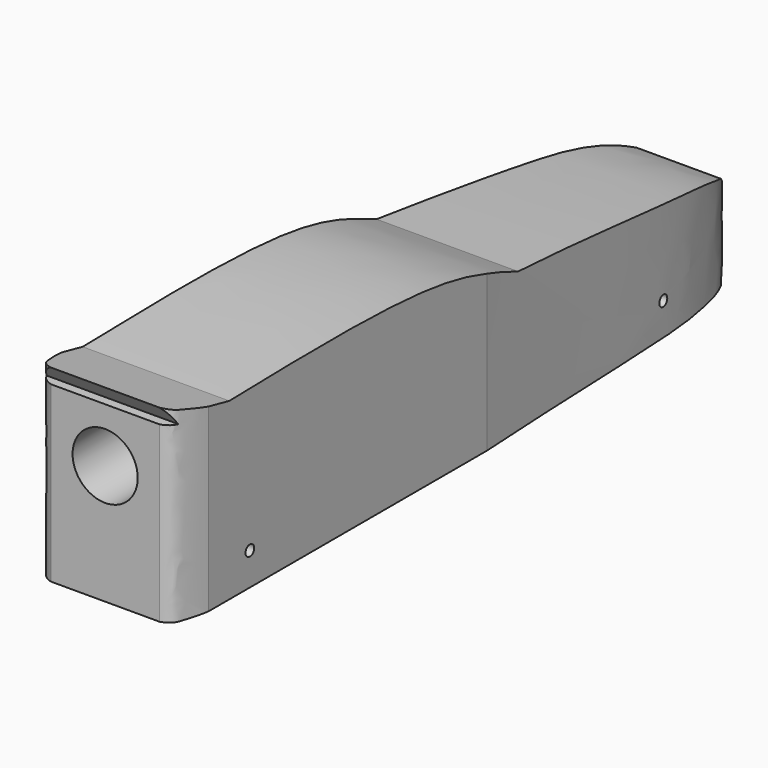
from build123d import *

# Parameters (mm, degrees)
F1_DEPTH = 21.43125
F2_R     = 9.525
F3_DEPTH = 50.8
F4_R     = 1.5875
F6_DEPTH = 42.8635
F7_DEPTH = 55.1070625421


with BuildPart() as f1:
    # F0 (on Right) → F1 (new body, symmetric)
    with BuildSketch(Plane.YZ):
        Polygon((-152.4, 69.85), (-152.4, 0), (152.4, 0), (152.4, 19.05), align=None)
    extrude(amount=F1_DEPTH, both=True)

    # F2 (on face) → F3 (cut)
    with BuildSketch(Plane.XZ.offset(152.4)):
        with Locations((0, 34.925)):
            Circle(F2_R)
    extrude(amount=-F3_DEPTH, mode=Mode.SUBTRACT)

    # F4 (on face) → F6 (intersect, through all)
    with BuildSketch(Plane.YZ.offset(21.43125)):
        with BuildLine():
            Line((-149.7065071007, 50.8408099003), (-152.4, 50.7999993861))
            Line((-152.4, 50.7999993861), (-152.4, 0))
            Line((-152.4, 0), (57.15, 0))
            add(Edge.make_bspline(
                [(57.15, 27.6693087071), (62.9540532827, 23.1574121863), (64.8345353288, 15.2838414165), (60.2900164004, 5.1415623251), (57.15, 0)],
                knots=[0, 0, 0, 0, 0.4816979855, 1, 1, 1, 1], degree=3))
            add(Edge.make_bspline(
                [(-27.3415464908, 40.8684164286), (-8.4446382918, 39.1311924639), (24.8142205738, 35.0208202174), (47.8670857847, 31.8072736263), (57.15, 27.6693087071)],
                knots=[0, 0, 0, 0, 0.5631768545, 1, 1, 1, 1], degree=3))
            add(Edge.make_bspline(
                [(-27.3415464908, 40.8684164286), (-35.3624819778, 44.1492309528), (-56.5713824039, 52.8243373258), (-104.2014900273, 51.7497373627), (-133.8184987721, 51.0815373923)],
                knots=[0, 0, 0, 0, 0.3781872386, 1, 1, 1, 1], degree=3))
            Line((-133.8184987721, 51.0815373923), (-152.4, 55.1060624421))
            Line((-152.4, 55.1060624421), (-149.7065071007, 50.8408099003))
        make_face()
        with Locations((-126.3143569231, 9.525)):
            Circle(F4_R, mode=Mode.SUBTRACT)
        with Locations((29.0634203702, 9.525)):
            Circle(F4_R, mode=Mode.SUBTRACT)
    extrude(amount=-F6_DEPTH, mode=Mode.INTERSECT)

    # F5 (on face) → F7 (intersect, through all)
    with BuildSketch(Plane(origin=(0, 0, 0), x_dir=(1, 0, 0), z_dir=(0, 0, -1))):
        with BuildLine():
            add(Edge.make_bspline(
                [(-21.43125, 141.3332819939), (-21.105100692, 143.7924098417), (-19.7181081761, 148.2729204744), (-18.7462978065, 151.51001513), (-15.875, 152.4)],
                knots=[0, 0, 0, 0, 0.5247215937, 1, 1, 1, 1], degree=3))
            Line((-21.43125, 141.3332819939), (-21.43125, 39.6870598197))
            add(Edge.make_bspline(
                [(-21.43125, 39.6870598197), (-19.8348436954, 15.699516797), (-18.7155051196, -26.3628345266), (-16.2676267963, -47.1015389649), (-10.981831047, -64.1384903262), (0, -64.5855814219)],
                knots=[0, 0, 0, 0, 0.4656404532, 0.7315566193, 1, 1, 1, 1], degree=3))
            add(Edge.make_bspline(
                [(21.43125, 39.6870598197), (19.8348436954, 15.699516797), (18.7155051196, -26.3628345266), (16.2676267963, -47.1015389649), (10.981831047, -64.1384903262), (0, -64.5855814219)],
                knots=[0, 0, 0, 0, 0.4656404532, 0.7315566193, 1, 1, 1, 1], degree=3))
            Line((21.43125, 39.6870598197), (21.43125, 141.3332819939))
            add(Edge.make_bspline(
                [(21.43125, 141.3332819939), (21.105100692, 143.7924098417), (19.7181081761, 148.2729204744), (18.7462978065, 151.51001513), (15.875, 152.4)],
                knots=[0, 0, 0, 0, 0.5247215937, 1, 1, 1, 1], degree=3))
            Line((15.875, 152.4), (-15.875, 152.4))
        make_face()
    extrude(amount=-F7_DEPTH, mode=Mode.INTERSECT)


solid = f1.part
